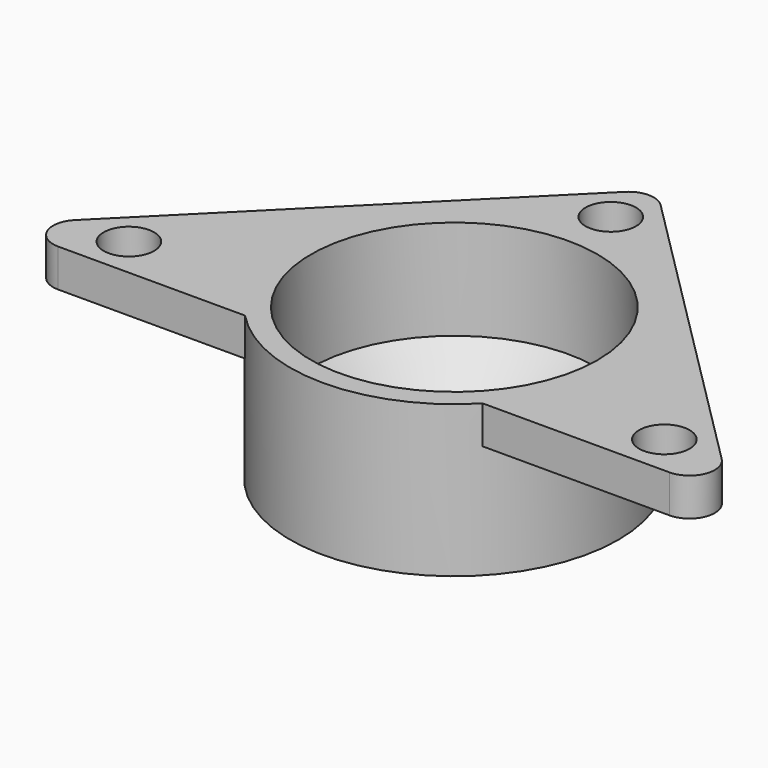
from build123d import *

# Parameters (mm, degrees)
SKETCH_R        = 2
PAD_DEPTH       = 5
SKETCH001_R     = 13
PAD001_DEPTH    = 9
SKETCH002_R     = 8
POCKET_DEPTH    = 18.001
SKETCH003_W     = 37.242641
SKETCH003_H     = 5
POCKET001_DEPTH = 41.926514
SKETCH004_R     = 11.35
POCKET002_DEPTH = 13
CHAMFER_SIZE    = 3.1
SKETCH005_W     = 40
SKETCH005_H     = 4
POCKET003_DEPTH = 41.926514


with BuildPart() as part:
    # Sketch → Pad (new body)
    with BuildSketch(Plane.XY):
        with BuildLine():
            Line((1.414214, 0), (49.84062, 0))
            ThreePointArc((49.84062, 0), (51.688379, 1.234633), (51.254834, 3.414214))
            Line((51.254834, 3.414214), (27.041631, 27.627417))
            ThreePointArc((27.041631, 27.627417), (25.627417, 28.213203), (24.213203, 27.627417))
            Line((0, 3.414214), (24.213203, 27.627417))
            ThreePointArc((0, 3.414214), (-0.433546, 1.234633), (1.414214, 0))
        make_face()
        with Locations((4.414214, 3.25)):
            Circle(SKETCH_R, mode=Mode.SUBTRACT)
        with Locations((46.84062, 3.25)):
            Circle(SKETCH_R, mode=Mode.SUBTRACT)
        with Locations((25.627417, 24.463203)):
            Circle(SKETCH_R, mode=Mode.SUBTRACT)
    extrude(amount=PAD_DEPTH)

    # Sketch001 (on Face10 of Pad) → Pad001 (join, symmetric)
    with BuildSketch(Plane(origin=(0, 0, 0), x_dir=(1, 0, 0), z_dir=(0, 0, -1))):
        with Locations((25.627417, -8.963203)):
            Circle(SKETCH001_R)
    extrude(amount=PAD001_DEPTH, both=True)

    # Sketch002 (on Face15 of Pad001) → Pocket (cut, through all)
    with BuildSketch(Plane(origin=(0, 0, -9), x_dir=(1, 0, 0), z_dir=(0, 0, -1))):
        with Locations((25.627417, -8.963203)):
            Circle(SKETCH002_R)
    extrude(amount=-POCKET_DEPTH, mode=Mode.SUBTRACT)

    # Sketch003 (on Face8 of Pocket) → Pocket001 (cut, through all)
    with BuildSketch(Plane(origin=(27.334524, 27.334524, 0), x_dir=(-0.707107, 0.707107, 0), z_dir=(0.707107, 0.707107, 0))):
        with Locations((-15.207106, 7.5)):
            Rectangle(SKETCH003_W, SKETCH003_H)
    extrude(amount=-POCKET001_DEPTH, mode=Mode.SUBTRACT)

    # Sketch004 (on Face15 of Pocket001) → Pocket002 (cut)
    with BuildSketch(Plane.XY.offset(5)):
        with Locations((25.627417, 8.963203)):
            Circle(SKETCH004_R)
    extrude(amount=-POCKET002_DEPTH, mode=Mode.SUBTRACT)

    # Chamfer
    chamfer_edges = [part.edges().sort_by_distance(p)[0] for p in [
        (14.277417, 8.963203, -8),
    ]]
    chamfer(chamfer_edges, length=CHAMFER_SIZE)

    # Sketch005 (on Face12 of Chamfer) → Pocket003 (cut, through all)
    with BuildSketch(Plane(origin=(-1.707107, 1.707107, 0), x_dir=(-0.707107, -0.707107, 0), z_dir=(-0.707107, 0.707107, 0))):
        with Locations((-20, 5)):
            Rectangle(SKETCH005_W, SKETCH005_H)
    extrude(amount=-POCKET003_DEPTH, mode=Mode.SUBTRACT)


solid = part.part
